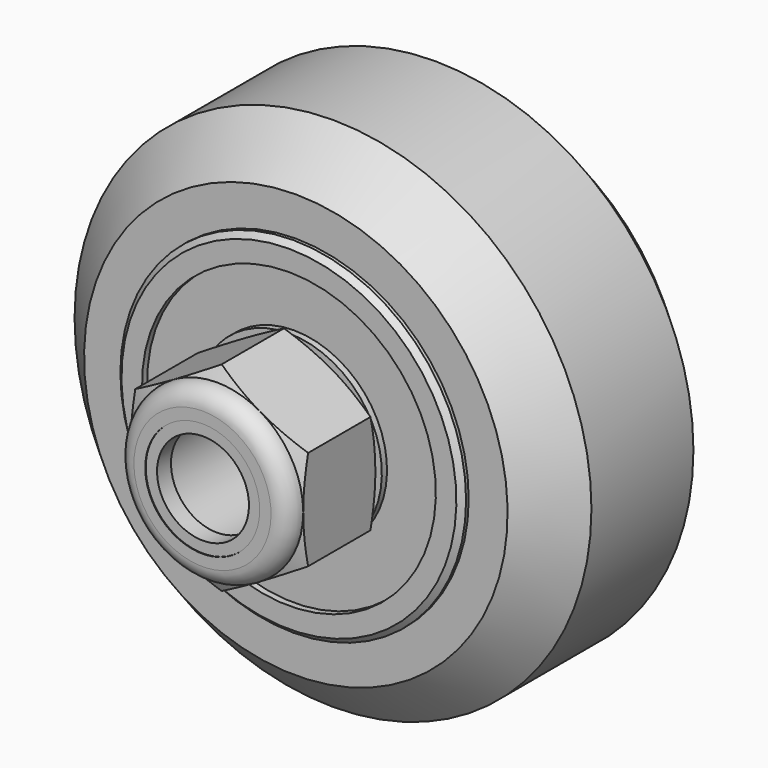
from build123d import *

# Parameters (mm, degrees)
F2_R      = 5
F2_R_2    = 2.5
F3_DEPTH  = 0.5
F6_SIZE   = 0.25
F10_DEPTH = 5.001


with BuildPart() as f1:
    # F0 (on Right) → F1 (revolve)
    with BuildSketch(Plane.YZ):
        Polygon((-0.5, 6.9475), (0, 6.9475), (0.5, 6.9475), (0.5, 7.9875), (5.1, 7.9875), (5.1, 9.8), (2.95, 11.96), (0, 11.96), (-2.95, 11.96), (-5.1, 9.8), (-5.1, 7.9875), (-0.5, 7.9875), align=None)
    revolve(axis=Axis((0, 9.506499, 0), (0, 1, 0)))


with BuildPart() as f3:
    # F2 (on Front) → F3 (new body, symmetric)
    with BuildSketch(Plane.XZ):
        Circle(F2_R)
        Circle(F2_R_2, mode=Mode.SUBTRACT)
    extrude(amount=F3_DEPTH, both=True)


with BuildPart() as f5:
    # F4 (on Right) → F5 (revolve)
    with BuildSketch(Plane.YZ):
        Polygon((-5.5, 2.5), (-0.5, 2.5), (-0.5, 4.3), (-0.8, 4.3), (-0.8, 6.8), (-0.5, 6.8), (-0.5, 8), (-5.5, 8), (-5.5, 6.8), (-5.2, 6.8), (-5.2, 4.3), (-5.5, 4.3), align=None)
    revolve(axis=Axis((0, -2.75, 0), (0, -1, 0)))

    # F6
    f6_edges = [f5.edges().sort_by_distance(p)[0] for p in [
        (0, -5.5, -8),
        (0, -0.5, -8),
        (0, -5.5, -2.5),
        (-2.5, -0.5, 0),
    ]]
    chamfer(f6_edges, length=F6_SIZE)


with BuildPart() as f8:
    # F7 (on Right) → F8 (revolve)
    with BuildSketch(Plane.YZ):
        with BuildLine():
            Line((-5.5, 2.5), (-5.5, 4))
            Line((-5.5, 4), (-5.786, 4.625))
            Line((-5.786, 4.625), (-7.586, 4.625))
            Line((-7.586, 4.625), (-9.386, 4.625))
            Line((-9.386, 4.625), (-9.672, 4))
            ThreePointArc((-9.672, 4), (-10.257484, 3.757484), (-10.5, 3.172))
            Line((-10.5, 3.172), (-10.5, 2.65))
            Line((-10.5, 2.65), (-10.47, 2.65))
            Line((-10.47, 2.65), (-10.47, 2.1275))
            Line((-10.47, 2.1275), (-9.663, 2.1275))
            Line((-9.663, 2.1275), (-9.663, 2.5))
            Line((-9.663, 2.5), (-5.5, 2.5))
        make_face()
    revolve(axis=Axis((0, -8, 0), (0, -1, 0)))

    # F9 (on face) → F10 (intersect, through all)
    with BuildSketch(Plane(origin=(0, -5.5, 0), x_dir=(-1, 0, 0), z_dir=(0, 1, 0))):
        Polygon((4, -2.309401), (4, 2.309401), (0, 4.618802), (-4, 2.309401), (-4, -2.309401), (0, -4.618802), align=None)
    extrude(amount=-F10_DEPTH, mode=Mode.INTERSECT)


solid = Compound([f1.part, f3.part, f5.part, f8.part])
